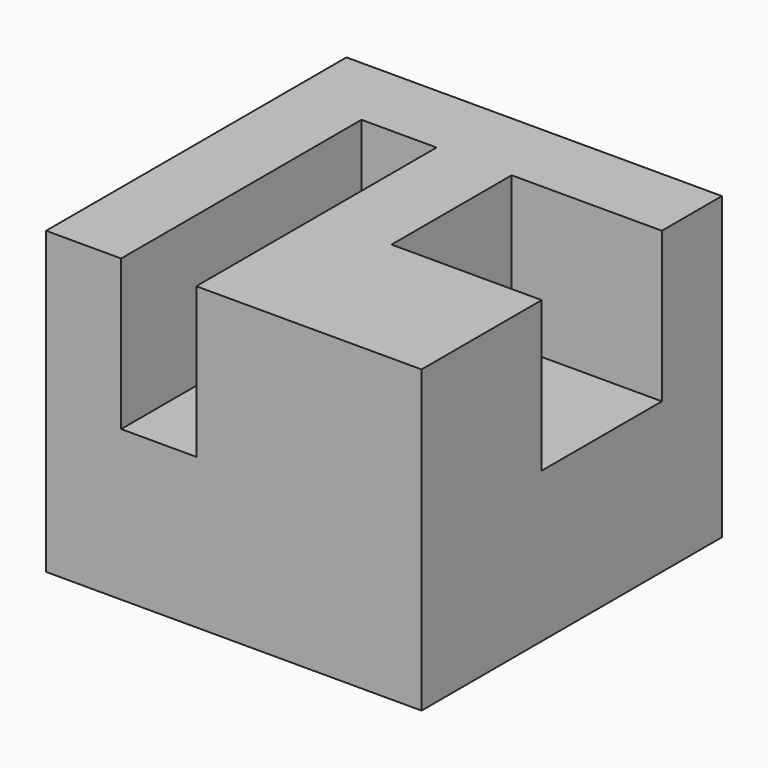
from build123d import *

# Parameters (mm, degrees)
F0_W     = 63.5
F0_H     = 63.5
F1_DEPTH = 50.8
F2_W     = 12.7
F2_H     = 50.8
F2_W_2   = 25.4
F2_H_2   = 25.4
F3_DEPTH = 25.4


with BuildPart() as f1:
    # F0 (on Top) → F1 (new body)
    with BuildSketch(Plane.XY):
        with Locations((4.227704, -16.908896)):
            Rectangle(F0_W, F0_H)
    extrude(amount=F1_DEPTH)

    # F2 (on face) → F3 (cut)
    with BuildSketch(Plane.XY.offset(50.8)):
        with Locations((-8.472296, -23.258896)):
            Rectangle(F2_W, F2_H)
        with Locations((23.277704, -10.558896)):
            Rectangle(F2_W_2, F2_H_2)
    extrude(amount=-F3_DEPTH, mode=Mode.SUBTRACT)


solid = f1.part
